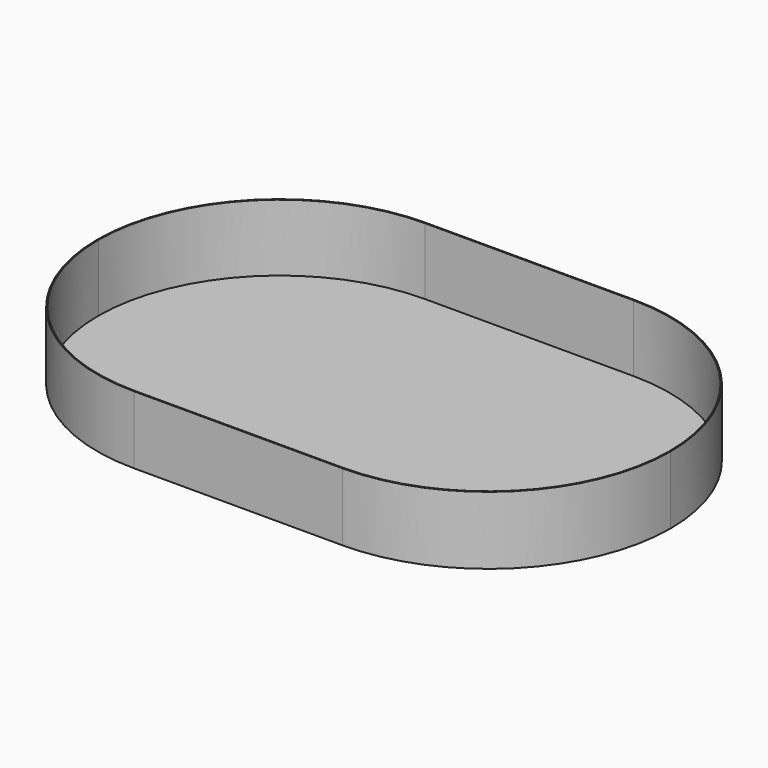
from build123d import *

# Parameters (mm, degrees)
F1_DEPTH = 16.51
F2_T     = -0.254


with BuildPart() as f1:
    # F0 (on Top) → F1 (new body)
    with BuildSketch(Plane.XY):
        with BuildLine():
            Line((95.25, 0), (44.45, 0))
            ThreePointArc((44.45, 0), (13.019104, -13.019104), (0, -44.45))
            ThreePointArc((0, -44.45), (13.019104, -75.880896), (44.45, -88.9))
            Line((44.45, -88.9), (95.25, -88.9))
            ThreePointArc((95.25, -88.9), (126.680896, -75.880896), (139.7, -44.45))
            ThreePointArc((139.7, -44.45), (126.680896, -13.019104), (95.25, 0))
        make_face()
    extrude(amount=F1_DEPTH)

    # F2
    f2_openings = [f1.faces().sort_by_distance(p)[0] for p in [
        (69.85, -44.45, 16.51),
    ]]
    offset(amount=F2_T, openings=f2_openings)


solid = f1.part
